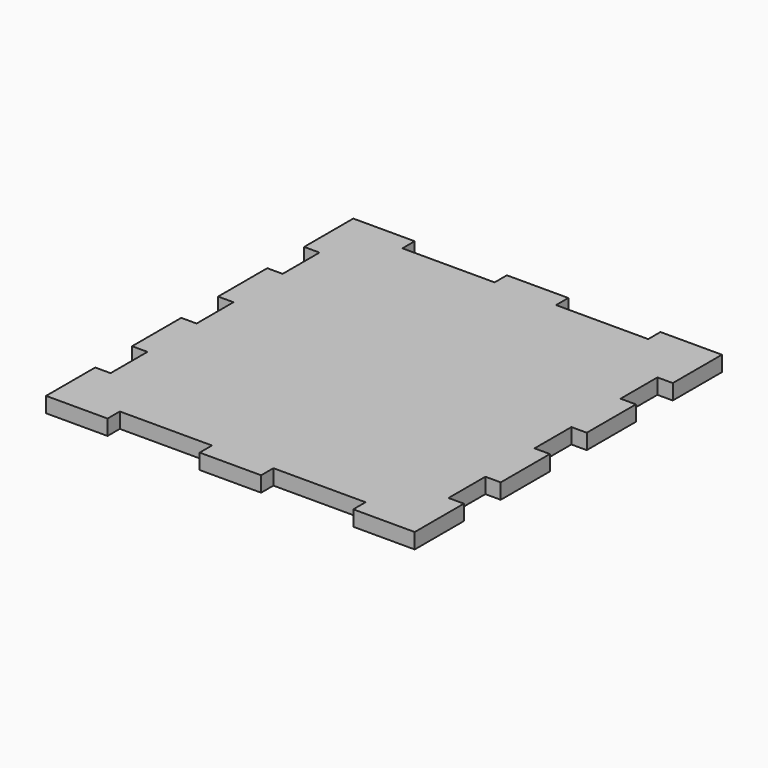
from build123d import *

# Parameters (mm, degrees)
F0_W     = 76.2
F0_H     = 79.375
F1_DEPTH = 3.175
F2_W     = 19.05
F2_H     = 3.175
F3_DEPTH = 3.176
F4_W     = 3.175
F4_H     = 9.525
F5_DEPTH = 3.176


with BuildPart() as f1:
    # F0 (on Top) → F1 (new body)
    with BuildSketch(Plane.XY):
        Rectangle(F0_W, F0_H)
    extrude(amount=F1_DEPTH)

    # F2 (on face) → F3 (cut, through all)
    with BuildSketch(Plane.XY.offset(3.175)):
        with Locations((-15.875, 38.1)):
            Rectangle(F2_W, F2_H)
        with Locations((15.875, 38.1)):
            Rectangle(F2_W, F2_H)
        with Locations((15.875, -38.1)):
            Rectangle(F2_W, F2_H)
        with Locations((-15.875, -38.1)):
            Rectangle(F2_W, F2_H)
    extrude(amount=-F3_DEPTH, mode=Mode.SUBTRACT)

    # F4 (on face) → F5 (cut, through all)
    with BuildSketch(Plane.XY.offset(3.175)):
        with Locations((-36.5125, 22.225)):
            Rectangle(F4_W, F4_H)
        with Locations((-36.5125, 0)):
            Rectangle(F4_W, F4_H)
        with Locations((-36.5125, -22.225)):
            Rectangle(F4_W, F4_H)
        with Locations((36.5125, -22.225)):
            Rectangle(F4_W, F4_H)
        with Locations((36.5125, 0)):
            Rectangle(F4_W, F4_H)
        with Locations((36.5125, 22.225)):
            Rectangle(F4_W, F4_H)
    extrude(amount=-F5_DEPTH, mode=Mode.SUBTRACT)


solid = f1.part
